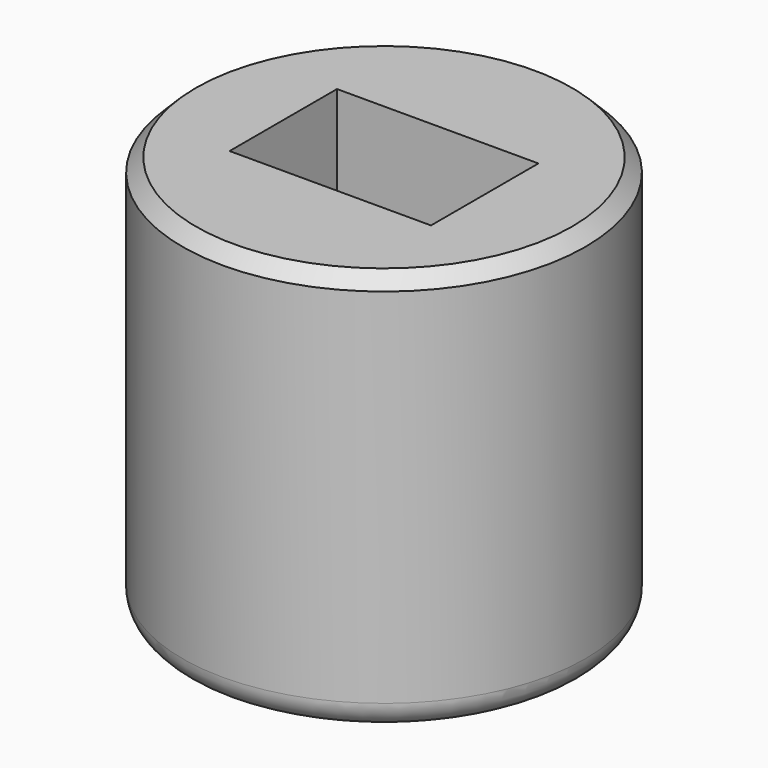
from build123d import *

# Parameters (mm, degrees)
F0_R     = 38.1
F1_DEPTH = 76.2
F2_W     = 38.1
F2_H     = 25.4
F3_DEPTH = 50.8
F4_SIZE  = 2.54
F5_R     = 5.08


with BuildPart() as f1:
    # F0 (on Top) → F1 (new body)
    with BuildSketch(Plane.XY):
        Circle(F0_R)
    extrude(amount=F1_DEPTH)

    # F2 (on face) → F3 (cut)
    with BuildSketch(Plane.XY.offset(76.2)):
        Rectangle(F2_W, F2_H)
    extrude(amount=-F3_DEPTH, mode=Mode.SUBTRACT)

    # F4
    f4_edges = [f1.edges().sort_by_distance(p)[0] for p in [
        (-38.1, 0, 76.2),
    ]]
    chamfer(f4_edges, length=F4_SIZE)

    # F5
    f5_edges = [f1.edges().sort_by_distance(p)[0] for p in [
        (-38.1, 0, 0),
    ]]
    fillet(f5_edges, radius=F5_R)


solid = f1.part
